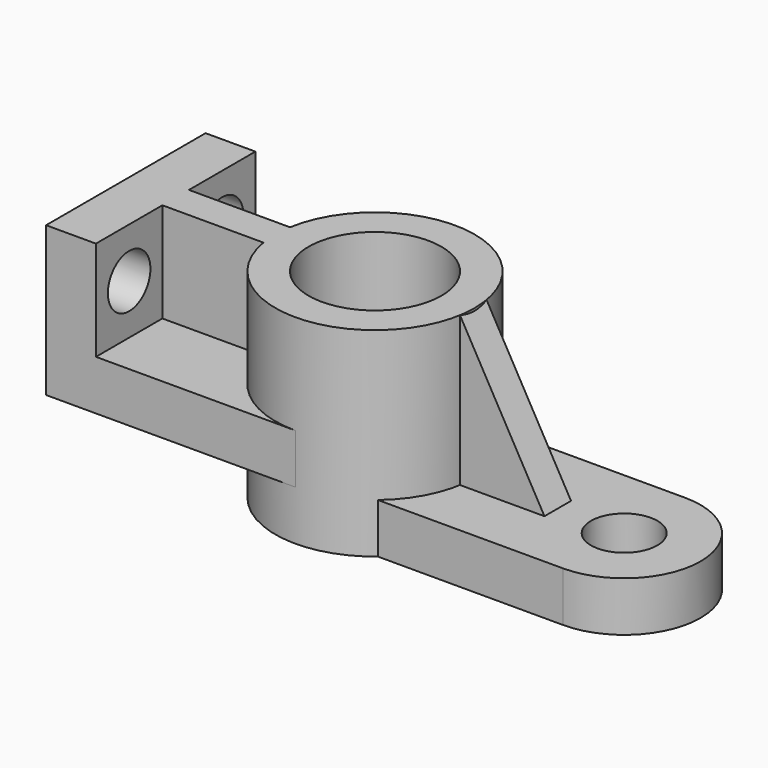
from build123d import *

# Parameters (mm, degrees)
F0_R      = 762
F0_R_2    = 508
F1_DEPTH  = 1524
F2_R      = 254
F3_DEPTH  = 381
F5_DEPTH  = 1143
F7_DEPTH  = 889.001
F9_DEPTH  = 1143
F11_DEPTH = 381
F12_R     = 203.2
F13_DEPTH = 381.001
F14_R     = 203.2
F15_DEPTH = 381.001


with BuildPart() as f1:
    # F0 (on Top) → F1 (new body)
    with BuildSketch(Plane.XY):
        Circle(F0_R)
        Circle(F0_R_2, mode=Mode.SUBTRACT)
    extrude(amount=F1_DEPTH)

    # F8 (on face) → F9 (join)
    with BuildSketch(Plane.XY.offset(1524)):
        with BuildLine():
            Line((-1905, 762), (-1905, 0))
            Line((-1905, 0), (-1905, -762))
            Line((-1905, -762), (-1524, -762))
            Line((-1524, -762), (-1524, -127))
            Line((-1524, -127), (-751.3421324537, -127))
            ThreePointArc((-751.3421324537, -127), (-762, 0), (-751.3421324537, 127))
            Line((-751.3421324537, 127), (-1524, 127))
            Line((-1524, 127), (-1524, 762))
            Line((-1524, 762), (-1905, 762))
        make_face()
    extrude(amount=-F9_DEPTH)

    # F10 (on face) → F11 (join)
    with BuildSketch(Plane(origin=(0, 0, 381), x_dir=(1, 0, 0), z_dir=(0, 0, -1))):
        with BuildLine():
            ThreePointArc((-751.3421324537, 127), (-491.8688849683, 581.9871132594), (0, 762))
            Line((0, 762), (-1524, 762))
            Line((-1524, 762), (-1524, 127))
            Line((-1524, 127), (-751.3421324537, 127))
        make_face()
        with BuildLine():
            Line((-1524, -762), (0, -762))
            ThreePointArc((0, -762), (-491.8688849683, -581.9871132594), (-751.3421324537, -127))
            Line((-751.3421324537, -127), (-1524, -127))
            Line((-1524, -127), (-1524, -762))
        make_face()
    extrude(amount=-F11_DEPTH)

    # F12 (on face) → F13 (cut, through all)
    with BuildSketch(Plane.YZ.offset(-1524)):
        with Locations((-444.5, 1143)):
            Circle(F12_R)
    extrude(amount=-F13_DEPTH, mode=Mode.SUBTRACT)

    # F14 (on face) → F15 (cut, through all)
    with BuildSketch(Plane.YZ.offset(-1524)):
        with Locations((444.5, 1143)):
            Circle(F14_R)
    extrude(amount=-F15_DEPTH, mode=Mode.SUBTRACT)


with BuildPart() as f3:
    # F2 (on face) → F3 (new body)
    with BuildSketch(Plane(origin=(0, 0, 0), x_dir=(1, 0, 0), z_dir=(0, 0, -1))):
        with BuildLine():
            ThreePointArc((1905, -584.2), (2318.0917815692, -413.0917815692), (2489.2, 0))
            ThreePointArc((2489.2, 0), (2318.0917815692, 413.0917815692), (1905, 584.2))
            ThreePointArc((1905, 584.2), (1320.8, 0), (1905, -584.2))
        make_face()
        with Locations((1905, 0)):
            Circle(F2_R, mode=Mode.SUBTRACT)
        with BuildLine():
            ThreePointArc((1905, -584.2), (1320.8, 0), (1905, 584.2))
            Line((1905, 584.2), (489.2385512202, 584.2))
            ThreePointArc((489.2385512202, 584.2), (690.450496426, 322.3695270728), (762, 0))
            ThreePointArc((762, 0), (690.450496426, -322.3695270728), (489.2385512202, -584.2))
            Line((489.2385512202, -584.2), (1905, -584.2))
        make_face()
    extrude(amount=-F3_DEPTH)


with BuildPart() as f5:
    # F4 (on face) → F5 (new body)
    with BuildSketch(Plane.XY.offset(381)):
        with BuildLine():
            Line((1397, 0), (762, 0))
            ThreePointArc((762, 0), (759.3308583647, -63.7232103331), (751.3421324537, -127))
            Line((751.3421324537, -127), (1397, -127))
            Line((1397, -127), (1397, 0))
        make_face()
        with BuildLine():
            ThreePointArc((751.3421324537, 127), (759.3308583647, 63.7232103331), (762, 0))
            Line((762, 0), (1397, 0))
            Line((1397, 0), (1397, 127))
            Line((1397, 127), (751.3421324537, 127))
        make_face()
    extrude(amount=F5_DEPTH)

    # F6 (on face) → F7 (cut, through all)
    with BuildSketch(Plane.XZ.offset(127)):
        Polygon((1397, 1524), (751.3421324537, 1524), (1397, 381), align=None)
    extrude(amount=-F7_DEPTH, mode=Mode.SUBTRACT)


solid = Compound([f1.part, f3.part, f5.part])
